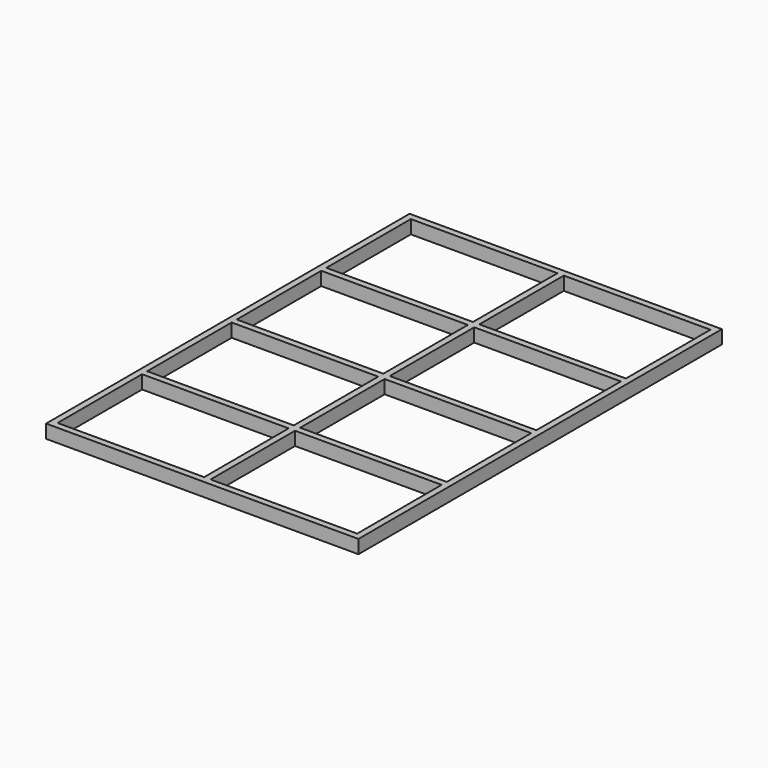
from build123d import *

# Parameters (mm, degrees)
F0_W     = 45
F0_H     = 743.75
F1_DEPTH = 95


with BuildPart() as f1:
    # F0 (on Top) → F1 (new body)
    with BuildSketch(Plane.XY):
        Polygon((1055, 1555), (1055, 1600), (-1055, 1600), (-1055, 1555), (-22.5, 1555), (22.5, 1555), align=None)
        Polygon((-1055, 1555), (-1055, 1600), (-1100, 1600), (-1100, -1600), (-1055, -1600), (-1055, -1555), (-1055, -811.25), (-1055, -766.25), (-1055, -22.5), (-1055, 22.5), (-1055, 766.25), (-1055, 811.25), align=None)
        Polygon((1100, -1600), (1100, 1600), (1055, 1600), (1055, 1555), (1055, 811.25), (1055, 766.25), (1055, 22.5), (1055, -22.5), (1055, -766.25), (1055, -811.25), (1055, -1555), (1055, -1600), align=None)
        with Locations((0, -394.375)):
            Rectangle(F0_W, F0_H)
        Polygon((22.5, -811.25), (1055, -811.25), (1055, -766.25), (22.5, -766.25), (-22.5, -766.25), (-1055, -766.25), (-1055, -811.25), (-22.5, -811.25), align=None)
        with Locations((0, -1183.125)):
            Rectangle(F0_W, F0_H)
        Polygon((1055, -22.5), (1055, 22.5), (22.5, 22.5), (-22.5, 22.5), (-1055, 22.5), (-1055, -22.5), (-22.5, -22.5), (22.5, -22.5), align=None)
        Polygon((1055, 766.25), (1055, 811.25), (22.5, 811.25), (-22.5, 811.25), (-1055, 811.25), (-1055, 766.25), (-22.5, 766.25), (22.5, 766.25), align=None)
        with Locations((0, 394.375)):
            Rectangle(F0_W, F0_H)
        with Locations((0, 1183.125)):
            Rectangle(F0_W, F0_H)
        Polygon((-1055, -1600), (1055, -1600), (1055, -1555), (22.5, -1555), (-22.5, -1555), (-1055, -1555), align=None)
    extrude(amount=F1_DEPTH)


solid = f1.part
